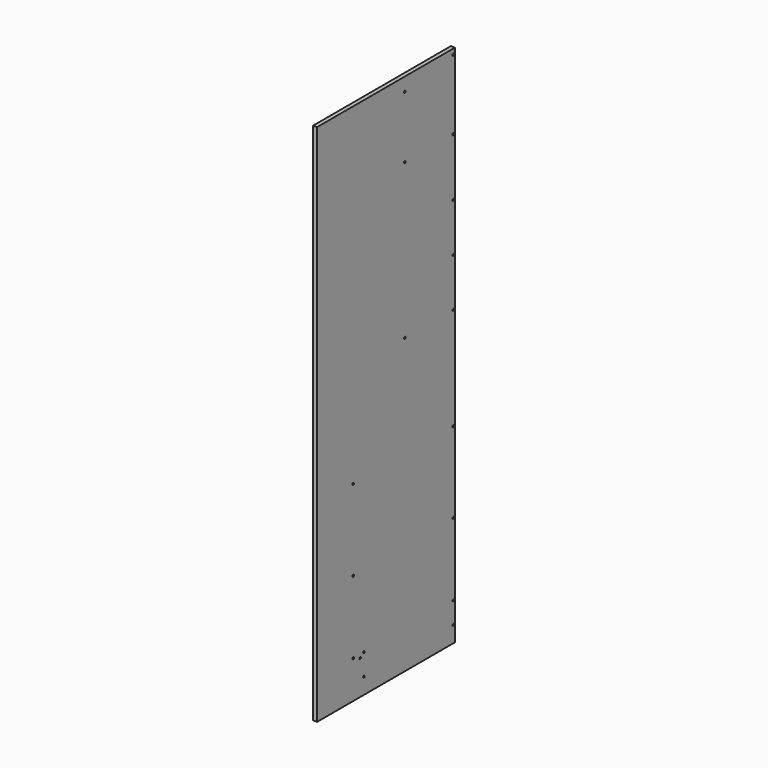
from build123d import *

# Parameters (mm, degrees)
F0_W     = 812.8
F0_H     = 2470.15
F1_DEPTH = 9.525
F2_R     = 4.7625
F3_DEPTH = 12.7
F4_R     = 4.7625
F5_DEPTH = 25.4


with BuildPart() as f1:
    # F0 (on Right) → F1 (new body, symmetric)
    with BuildSketch(Plane.YZ):
        with Locations((-406.4, 1235.075)):
            Rectangle(F0_W, F0_H)
    extrude(amount=F1_DEPTH, both=True)

    # F2 (on Right) → F3 (cut, symmetric)
    with BuildSketch(Plane.YZ):
        with Locations((-295.275, 1384.3)):
            Circle(F2_R)
        with Locations((-295.275, 2114.55)):
            Circle(F2_R)
        with Locations((-295.275, 2406.65)):
            Circle(F2_R)
        with Locations((-9.525, 2444.75)):
            Circle(F2_R)
        with Locations((-9.525, 2114.55)):
            Circle(F2_R)
        with Locations((-9.525, 1384.3)):
            Circle(F2_R)
        with Locations((-9.525, 1612.9)):
            Circle(F2_R)
        with Locations((-9.525, 1841.5)):
            Circle(F2_R)
        with Locations((-9.525, 76.2)):
            Circle(F2_R)
        with Locations((-9.525, 177.8)):
            Circle(F2_R)
        with Locations((-9.525, 520.7)):
            Circle(F2_R)
        with Locations((-9.525, 901.7)):
            Circle(F2_R)
        with Locations((-536.575, 76.2)):
            Circle(F2_R)
        with Locations((-536.575, 177.8)):
            Circle(F2_R)
        with Locations((-600.075, 177.8)):
            Circle(F2_R)
        with Locations((-558.8, 161.925)):
            Circle(F2_R)
        with Locations((-600.075, 520.7)):
            Circle(F2_R)
        with Locations((-600.075, 901.7)):
            Circle(F2_R)
    extrude(amount=F3_DEPTH, both=True, mode=Mode.SUBTRACT)

    # F4 (on Right) → F5 (cut)
    with BuildSketch(Plane.YZ):
        with Locations((-784.225, 1746.25)):
            Circle(F4_R)
        with Locations((-784.225, 2114.55)):
            Circle(F4_R)
        with Locations((-784.225, 2406.65)):
            Circle(F4_R)
        with Locations((-9.525, 1746.25)):
            Circle(F4_R)
    extrude(amount=-F5_DEPTH, mode=Mode.SUBTRACT)


solid = f1.part
